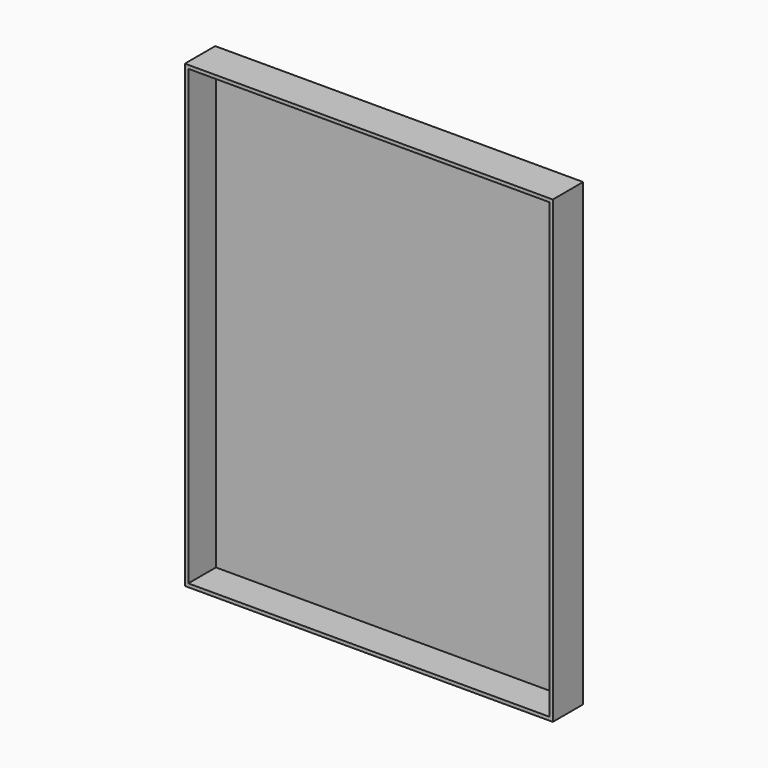
from build123d import *

# Parameters (mm, degrees)
F0_W     = 406.4
F0_H     = 508
F1_DEPTH = 3.81
F2_W     = 406.4
F2_H     = 508
F2_W_2   = 398.78
F2_H_2   = 500.38
F3_DEPTH = 38.1


with BuildPart() as f1:
    # F0 (on Front) → F1 (new body)
    with BuildSketch(Plane.XZ):
        with Locations((29.981383, 24.04566)):
            Rectangle(F0_W, F0_H)
    extrude(amount=F1_DEPTH)

    # F2 (on face) → F3 (join)
    with BuildSketch(Plane.XZ.offset(3.81)):
        with Locations((29.981383, 24.04566)):
            Rectangle(F2_W, F2_H)
        with Locations((29.981383, 24.04566)):
            Rectangle(F2_W_2, F2_H_2, mode=Mode.SUBTRACT)
    extrude(amount=F3_DEPTH)


solid = f1.part
